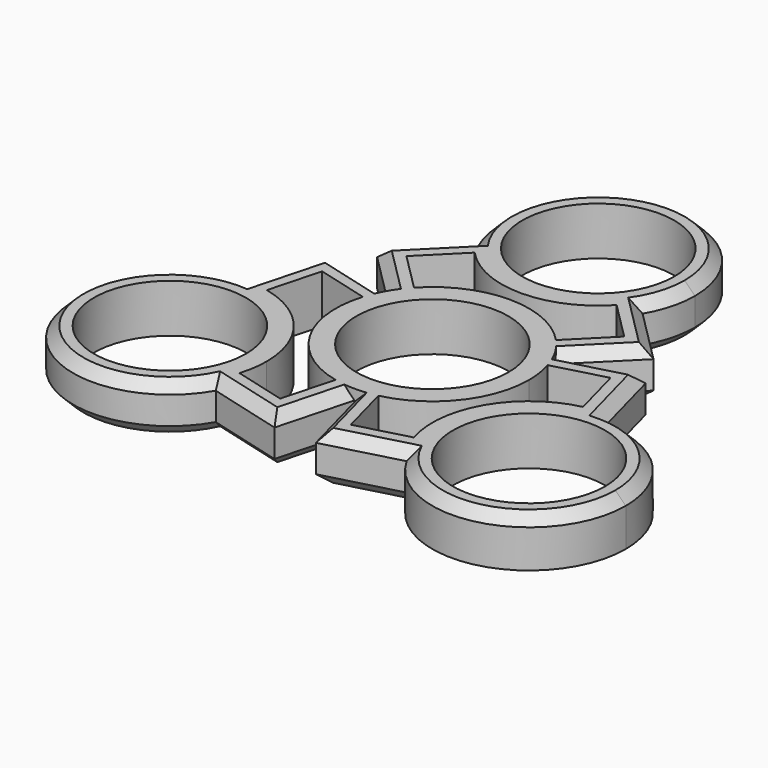
from build123d import *

# Parameters (mm, degrees)
F0_R     = 11
F1_DEPTH = 7
F2_SIZE  = 1.5


with BuildPart() as f1:
    # F0 (on Top) → F1 (new body)
    with BuildSketch(Plane.XY):
        with BuildLine():
            ThreePointArc((10.2709292347, 9.5135699218), (11.240900909, 8.3451870413), (12.0786220303, 7.0786220303))
            Line((12.0786220303, 7.0786220303), (20, 15))
            Line((20, 15), (12.0786220303, 22.9213779697))
            ThreePointArc((12.0786220303, 22.9213779697), (11.240900909, 21.6548129587), (10.2709292347, 20.4864300782))
            Line((10.2709292347, 20.4864300782), (15.7573593129, 15))
            Line((15.7573593129, 15), (10.2709292347, 9.5135699218))
        make_face()
        with BuildLine():
            ThreePointArc((10.2709292347, 20.4864300782), (11.240900909, 21.6548129587), (12.0786220303, 22.9213779697))
            ThreePointArc((12.0786220303, 22.9213779697), (13.5111196506, 26.3326241278), (14, 30))
            ThreePointArc((14, 30), (-3.6673758722, 43.5111196506), (-12.0786220303, 22.9213779697))
            ThreePointArc((-12.0786220303, 22.9213779697), (-11.240900909, 21.6548129587), (-10.2709292347, 20.4864300782))
            ThreePointArc((-10.2709292347, 20.4864300782), (0, 16), (10.2709292347, 20.4864300782))
        make_face()
        with Locations((0, 30)):
            Circle(F0_R, mode=Mode.SUBTRACT)
        with BuildLine():
            ThreePointArc((-12.0786220303, 7.0786220303), (-11.240900909, 8.3451870413), (-10.2709292347, 9.5135699218))
            Line((-10.2709292347, 9.5135699218), (-15.7573593129, 15))
            Line((-15.7573593129, 15), (-10.2709292347, 20.4864300782))
            ThreePointArc((-10.2709292347, 20.4864300782), (-11.240900909, 21.6548129587), (-12.0786220303, 22.9213779697))
            Line((-12.0786220303, 22.9213779697), (-20, 15))
            Line((-20, 15), (-12.0786220303, 7.0786220303))
        make_face()
        with BuildLine():
            Line((-20.8690607132, 6.1462734615), (-13.3744578503, 4.1381006768))
            ThreePointArc((-13.3744578503, 4.1381006768), (-12.8475944316, 5.5623122279), (-12.1695775172, 6.9210825058))
            Line((-12.1695775172, 6.9210825058), (-22.9903810568, 9.8205080757))
            Line((-22.9903810568, 9.8205080757), (-25.8898066266, -1.0002954639))
            ThreePointArc((-25.8898066266, -1.0002954639), (-24.3740685909, -1.0925007307), (-22.8772334979, -1.3483294014))
            Line((-22.8772334979, -1.3483294014), (-20.8690607132, 6.1462734615))
        make_face()
        with BuildLine():
            ThreePointArc((3.1035286156, -13.6516705986), (10.9418782807, -8.7335731342), (14, 0))
            ThreePointArc((14, 0), (13.8427311233, 2.0925570597), (13.3744578503, 4.1381006768))
            ThreePointArc((13.3744578503, 4.1381006768), (12.8475944316, 5.5623122279), (12.1695775172, 6.9210825058))
            ThreePointArc((12.1695775172, 6.9210825058), (12.124355653, 7), (12.0786220303, 7.0786220303))
            ThreePointArc((12.0786220303, 7.0786220303), (11.240900909, 8.3451870413), (10.2709292347, 9.5135699218))
            ThreePointArc((10.2709292347, 9.5135699218), (0, 14), (-10.2709292347, 9.5135699218))
            ThreePointArc((-10.2709292347, 9.5135699218), (-11.240900909, 8.3451870413), (-12.0786220303, 7.0786220303))
            ThreePointArc((-12.0786220303, 7.0786220303), (-12.124355653, 7), (-12.1695775172, 6.9210825058))
            ThreePointArc((-12.1695775172, 6.9210825058), (-12.8475944316, 5.5623122279), (-13.3744578503, 4.1381006768))
            ThreePointArc((-13.3744578503, 4.1381006768), (-12.124355653, -7), (-3.1035286156, -13.6516705986))
            ThreePointArc((-3.1035286156, -13.6516705986), (-1.6066935226, -13.9074992693), (-0.0909554869, -13.9997045361))
            ThreePointArc((-0.0909554869, -13.9997045361), (0, -14), (0.0909554869, -13.9997045361))
            ThreePointArc((0.0909554869, -13.9997045361), (1.6066935226, -13.9074992693), (3.1035286156, -13.6516705986))
        make_face()
        Circle(F0_R, mode=Mode.SUBTRACT)
        with BuildLine():
            ThreePointArc((-25.8898066266, -1.0002954639), (-38.1051177665, -22), (-13.8111845963, -21.9210825058))
            ThreePointArc((-13.8111845963, -21.9210825058), (-13.1331676819, -20.5623122279), (-12.6063042633, -19.1381006768))
            ThreePointArc((-12.6063042633, -19.1381006768), (-12.1380309902, -17.0925570597), (-11.9807621135, -15))
            ThreePointArc((-11.9807621135, -15), (-15.0388838329, -6.2664268658), (-22.8772334979, -1.3483294014))
            ThreePointArc((-22.8772334979, -1.3483294014), (-24.3740685909, -1.0925007307), (-25.8898066266, -1.0002954639))
        make_face()
        with Locations((-25.9807621135, -15)):
            Circle(F0_R, mode=Mode.SUBTRACT)
        with BuildLine():
            Line((-2.9903810568, -24.8205080757), (-0.0909554869, -13.9997045361))
            ThreePointArc((-0.0909554869, -13.9997045361), (-1.6066935226, -13.9074992693), (-3.1035286156, -13.6516705986))
            Line((-3.1035286156, -13.6516705986), (-5.1117014003, -21.1462734615))
            Line((-5.1117014003, -21.1462734615), (-12.6063042633, -19.1381006768))
            ThreePointArc((-12.6063042633, -19.1381006768), (-13.1331676819, -20.5623122279), (-13.8111845963, -21.9210825058))
            Line((-13.8111845963, -21.9210825058), (-2.9903810568, -24.8205080757))
        make_face()
        with BuildLine():
            Line((5.1117014003, -21.1462734615), (3.1035286156, -13.6516705986))
            ThreePointArc((3.1035286156, -13.6516705986), (1.6066935226, -13.9074992693), (0.0909554869, -13.9997045361))
            Line((0.0909554869, -13.9997045361), (2.9903810568, -24.8205080757))
            Line((2.9903810568, -24.8205080757), (13.8111845963, -21.9210825058))
            ThreePointArc((13.8111845963, -21.9210825058), (13.1331676819, -20.5623122279), (12.6063042633, -19.1381006768))
            Line((12.6063042633, -19.1381006768), (5.1117014003, -21.1462734615))
        make_face()
        with BuildLine():
            ThreePointArc((12.1695775172, 6.9210825058), (12.8475944316, 5.5623122279), (13.3744578503, 4.1381006768))
            Line((13.3744578503, 4.1381006768), (20.8690607132, 6.1462734615))
            Line((20.8690607132, 6.1462734615), (22.8772334979, -1.3483294014))
            ThreePointArc((22.8772334979, -1.3483294014), (24.3740685909, -1.0925007307), (25.8898066266, -1.0002954639))
            Line((25.8898066266, -1.0002954639), (22.9903810568, 9.8205080757))
            Line((22.9903810568, 9.8205080757), (12.1695775172, 6.9210825058))
        make_face()
        with BuildLine():
            ThreePointArc((25.8898066266, -1.0002954639), (24.3740685909, -1.0925007307), (22.8772334979, -1.3483294014))
            ThreePointArc((22.8772334979, -1.3483294014), (13.8564064606, -8), (12.6063042633, -19.1381006768))
            ThreePointArc((12.6063042633, -19.1381006768), (13.1331676819, -20.5623122279), (13.8111845963, -21.9210825058))
            ThreePointArc((13.8111845963, -21.9210825058), (29.5602812683, -28.5346607871), (39.9807621135, -15))
            ThreePointArc((39.9807621135, -15), (35.8480470284, -5.0683995042), (25.8898066266, -1.0002954639))
        make_face()
        with Locations((25.9807621135, -15)):
            Circle(F0_R, mode=Mode.SUBTRACT)
    extrude(amount=F1_DEPTH)

    # F2
    f2_edges = [f1.edges().sort_by_distance(p)[0] for p in [
        (0, 44, 7),
        (-16.039311, 18.960689, 7),
        (-16.039311, 11.039311, 7),
        (-17.579979, 8.370795, 7),
        (-24.440094, 4.410106, 7),
        (-38.105118, -22, 7),
        (-8.400783, -23.370795, 7),
        (-1.540668, -19.410106, 7),
        (1.540668, -19.410106, 7),
        (8.400783, -23.370795, 7),
        (38.105118, -22, 7),
        (24.440094, 4.410106, 7),
        (17.579979, 8.370795, 7),
        (16.039311, 11.039311, 7),
        (16.039311, 18.960689, 7),
        (8.400783, -23.370795, 0),
        (24.440094, 4.410106, 0),
        (17.579979, 8.370795, 0),
        (16.039311, 11.039311, 0),
        (16.039311, 18.960689, 0),
        (0, 44, 0),
        (-16.039311, 18.960689, 0),
        (-16.039311, 11.039311, 0),
        (-17.579979, 8.370795, 0),
        (-24.440094, 4.410106, 0),
        (-38.105118, -22, 0),
        (-8.400783, -23.370795, 0),
        (-1.540668, -19.410106, 0),
        (1.540668, -19.410106, 0),
    ]]
    chamfer(f2_edges, length=F2_SIZE)


solid = f1.part
